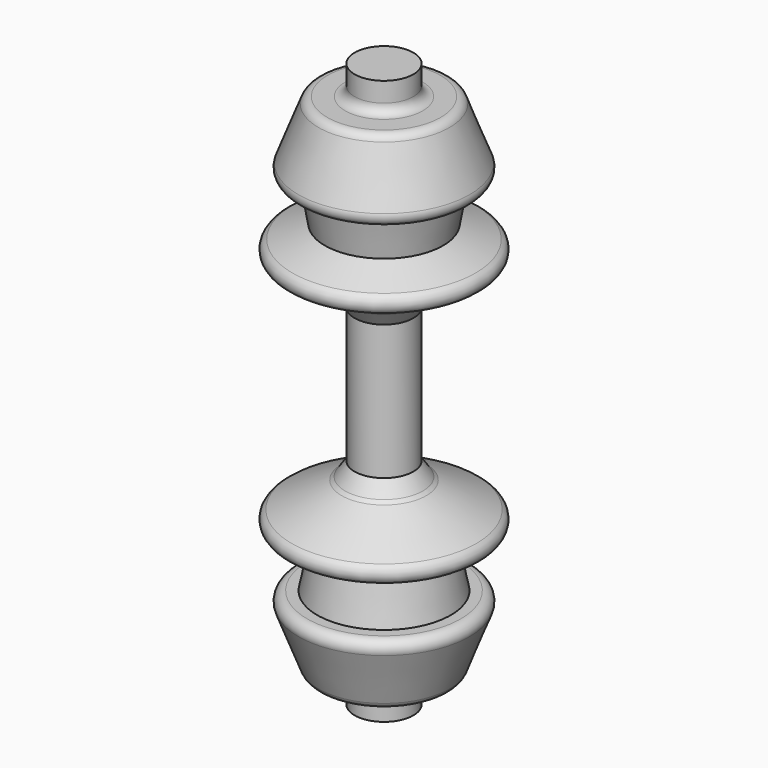
from build123d import *

# Parameters (mm, degrees)
F0_R     = 15.875
F1_DEPTH = 76.2
F5_R     = 5.08


with BuildPart() as f1:
    # F0 (on Top) → F1 (new body, symmetric)
    with BuildSketch(Plane.XY):
        Circle(F0_R)
    extrude(amount=F1_DEPTH, both=True)

    # F3 (on Right) → F4 (revolve)
    with BuildSketch(Plane.YZ):
        Polygon((34.1414064169, 60.5032593012), (0, 60.5032593012), (0, -62.7874732018), (21.77124843, -31.147249043), (59.4381839037, -11.5604475141), (31.9413207471, 0), (36.0846854746, 21.9631250948), (48.8914437592, 21.9631250948), align=None)
    revolve(axis=Axis((0, 0, -37.18399629), (0, 0, -1)))

    # F5
    f5_edges = [f1.edges().sort_by_distance(p)[0] for p in [
        (0, -34.141406, 60.503259),
        (-15.875, 0, 60.503259),
        (0, -48.891444, 21.963125),
        (0, -59.438184, -11.560448),
        (0, -21.771248, -31.147249),
    ]]
    fillet(f5_edges, radius=F5_R)

    # F6: F1 across face


with BuildPart() as f1_1:
    add(f1.part)
    add(f1.part.mirror(Plane(origin=(0, 0, -76.2), x_dir=(1, 0, 0), z_dir=(0, 0, -1))))


solid = f1_1.part
